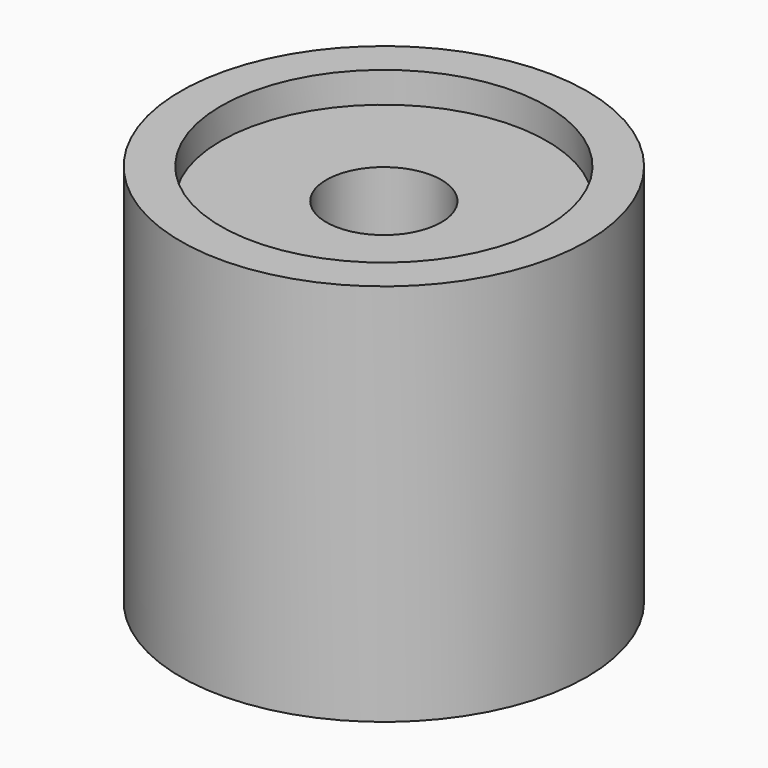
from build123d import *

# Parameters (mm, degrees)
F0_R     = 6.731
F1_DEPTH = 12.7
F2_R     = 5.3975
F3_DEPTH = 1.016
F4_R     = 1.905
F5_DEPTH = 25.4


with BuildPart() as f1:
    # F0 (on Top) → F1 (new body)
    with BuildSketch(Plane.XY):
        Circle(F0_R)
    extrude(amount=F1_DEPTH)

    # F2 (on face) → F3 (cut)
    with BuildSketch(Plane.XY.offset(12.7)):
        Circle(F2_R)
    extrude(amount=-F3_DEPTH, mode=Mode.SUBTRACT)

    # F4 (on face) → F5 (cut)
    with BuildSketch(Plane(origin=(0, 0, 0), x_dir=(1, 0, 0), z_dir=(0, 0, -1))):
        Circle(F4_R)
    extrude(amount=-F5_DEPTH, mode=Mode.SUBTRACT)


solid = f1.part
